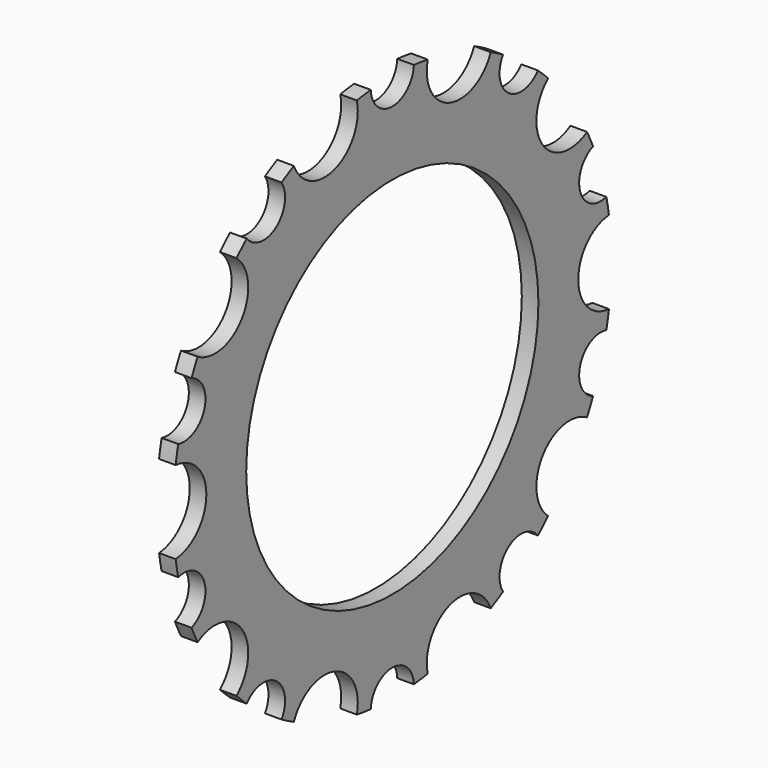
from build123d import *

# Parameters (mm, degrees)
F0_R     = 139.7
F1_DEPTH = 12.7


with BuildPart() as f1:
    # F0 (on Right) → F1 (new body)
    with BuildSketch(Plane.YZ):
        with BuildLine():
            ThreePointArc((20.612464, 208.533759), (0, 188.9125), (-20.612464, 208.533759))
            ThreePointArc((-20.612464, 208.533759), (-27.271164, 207.767866), (-33.901963, 206.789408))
            ThreePointArc((-33.901963, 206.789408), (-54.943222, 169.097849), (-94.120501, 187.223219))
            ThreePointArc((-94.120501, 187.223219), (-100.060053, 184.117322), (-105.897235, 180.823058))
            ThreePointArc((-105.897235, 180.823058), (-111.039981, 152.833423), (-139.248902, 156.591653))
            ThreePointArc((-139.248902, 156.591653), (-144.185722, 152.058147), (-148.975029, 147.369072))
            ThreePointArc((-148.975029, 147.369072), (-143.843222, 104.508218), (-186.192132, 96.144124))
            ThreePointArc((-186.192132, 96.144124), (-189.17173, 90.140219), (-191.957789, 84.044094))
            ThreePointArc((-191.957789, 84.044094), (-179.666464, 58.377173), (-204.696992, 44.836858))
            ThreePointArc((-204.696992, 44.836858), (-206.026236, 38.267384), (-207.144697, 31.658759))
            ThreePointArc((-207.144697, 31.658759), (-177.8, 0), (-207.144697, -31.658759))
            ThreePointArc((-207.144697, -31.658759), (-206.026236, -38.267384), (-204.696992, -44.836858))
            ThreePointArc((-204.696992, -44.836858), (-179.666464, -58.377173), (-191.957789, -84.044094))
            ThreePointArc((-191.957789, -84.044094), (-189.17173, -90.140219), (-186.192132, -96.144124))
            ThreePointArc((-186.192132, -96.144124), (-143.843222, -104.508218), (-148.975029, -147.369072))
            ThreePointArc((-148.975029, -147.369072), (-144.185722, -152.058147), (-139.248902, -156.591653))
            ThreePointArc((-139.248902, -156.591653), (-111.039981, -152.833423), (-105.897235, -180.823058))
            ThreePointArc((-105.897235, -180.823058), (-100.060053, -184.117322), (-94.120501, -187.223219))
            ThreePointArc((-94.120501, -187.223219), (-54.943222, -169.097849), (-33.901963, -206.789408))
            ThreePointArc((-33.901963, -206.789408), (-27.271164, -207.767866), (-20.612464, -208.533759))
            ThreePointArc((-20.612464, -208.533759), (0, -188.9125), (20.612464, -208.533759))
            ThreePointArc((20.612464, -208.533759), (27.271164, -207.767866), (33.901963, -206.789408))
            ThreePointArc((33.901963, -206.789408), (54.943222, -169.097849), (94.120501, -187.223219))
            ThreePointArc((94.120501, -187.223219), (100.060053, -184.117322), (105.897235, -180.823058))
            ThreePointArc((105.897235, -180.823058), (111.039981, -152.833423), (139.248902, -156.591653))
            ThreePointArc((139.248902, -156.591653), (144.185722, -152.058147), (148.975029, -147.369072))
            ThreePointArc((148.975029, -147.369072), (143.843222, -104.508218), (186.192132, -96.144124))
            ThreePointArc((186.192132, -96.144124), (189.17173, -90.140219), (191.957789, -84.044094))
            ThreePointArc((191.957789, -84.044094), (179.666464, -58.377173), (204.696992, -44.836858))
            ThreePointArc((204.696992, -44.836858), (206.026236, -38.267384), (207.144697, -31.658759))
            ThreePointArc((207.144697, -31.658759), (177.8, 0), (207.144697, 31.658759))
            ThreePointArc((207.144697, 31.658759), (206.026236, 38.267384), (204.696992, 44.836858))
            ThreePointArc((204.696992, 44.836858), (179.666464, 58.377173), (191.957789, 84.044094))
            ThreePointArc((191.957789, 84.044094), (189.17173, 90.140219), (186.192132, 96.144124))
            ThreePointArc((186.192132, 96.144124), (143.843222, 104.508218), (148.975029, 147.369072))
            ThreePointArc((148.975029, 147.369072), (144.185722, 152.058147), (139.248902, 156.591653))
            ThreePointArc((139.248902, 156.591653), (111.039981, 152.833423), (105.897235, 180.823058))
            ThreePointArc((105.897235, 180.823058), (100.060053, 184.117322), (94.120501, 187.223219))
            ThreePointArc((94.120501, 187.223219), (54.943222, 169.097849), (33.901963, 206.789408))
            ThreePointArc((33.901963, 206.789408), (27.271164, 207.767866), (20.612464, 208.533759))
        make_face()
        Circle(F0_R, mode=Mode.SUBTRACT)
    extrude(amount=F1_DEPTH)


solid = f1.part
